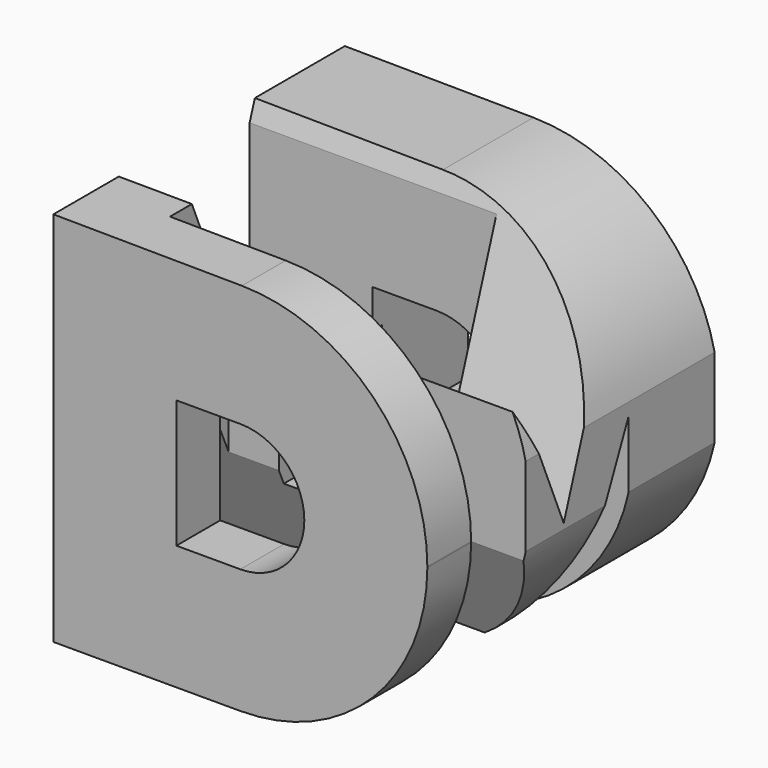
from build123d import *

# Parameters (mm, degrees)
F3_DEPTH = 50
F4_DEPTH = 50
F5_DEPTH = 50


with BuildPart() as f3:
    # F0 (on Top) → F3 (new body, symmetric)
    with BuildSketch(Plane.XY):
        Polygon((50, -36.094326), (30, -36.094326), (-29, -36.094326), (-29, -17.455937), (30, -17.455937), (46.441259, -17.455937), (46.441259, 42.544063), (30, 42.544063), (-50, 42.544063), (-50, 12.319882), (15.221381, 12.319882), (15.221381, 0), (-50, 0), (-50, -50), (30, -50), (50, -50), align=None)
    extrude(amount=F3_DEPTH, both=True)

    # F1 (on Front) → F4 (intersect, symmetric)
    with BuildSketch(Plane.XZ):
        with BuildLine():
            Line((0.401398, 47.279804), (-47.496608, 47.684579))
            Line((-47.496608, 47.684579), (-47.496608, -47.940426))
            Line((-47.496608, -47.940426), (0, -47.940426))
            ThreePointArc((0, -47.940426), (33.587572, -34.027999), (47.5, -0.440426))
            Line((47.5, -0.440426), (47.5, -0.2185))
            ThreePointArc((47.5, -0.2185), (33.729189, 33.226855), (0.401398, 47.279804))
        make_face()
        with BuildLine():
            Line((-16.25, -16.25), (-16.25, 16.25))
            Line((-16.25, 16.25), (0, 16.25))
            ThreePointArc((0, 16.25), (11.490485, 11.490485), (16.25, 0))
            ThreePointArc((16.25, 0), (11.490485, -11.490485), (0, -16.25))
            Line((0, -16.25), (-16.25, -16.25))
        make_face(mode=Mode.SUBTRACT)
    extrude(amount=F4_DEPTH, both=True, mode=Mode.INTERSECT)

    # F2 (on Right) → F5 (intersect, symmetric)
    with BuildSketch(Plane.YZ):
        Polygon((14.925366, 50.447736), (-5.373133, -8.95522), (-29.727991, 48.903065), (-55.721365, 48.903065), (-55.721365, -51.030165), (-25.97014, -50.642264), (-25.97014, 6.567161), (-5.373133, -39.960397), (15.223874, 6.567161), (15.223874, -50.642264), (55.721365, -50.114252), (55.721365, 50.447736), align=None)
    extrude(amount=F5_DEPTH, both=True, mode=Mode.INTERSECT)


solid = f3.part
